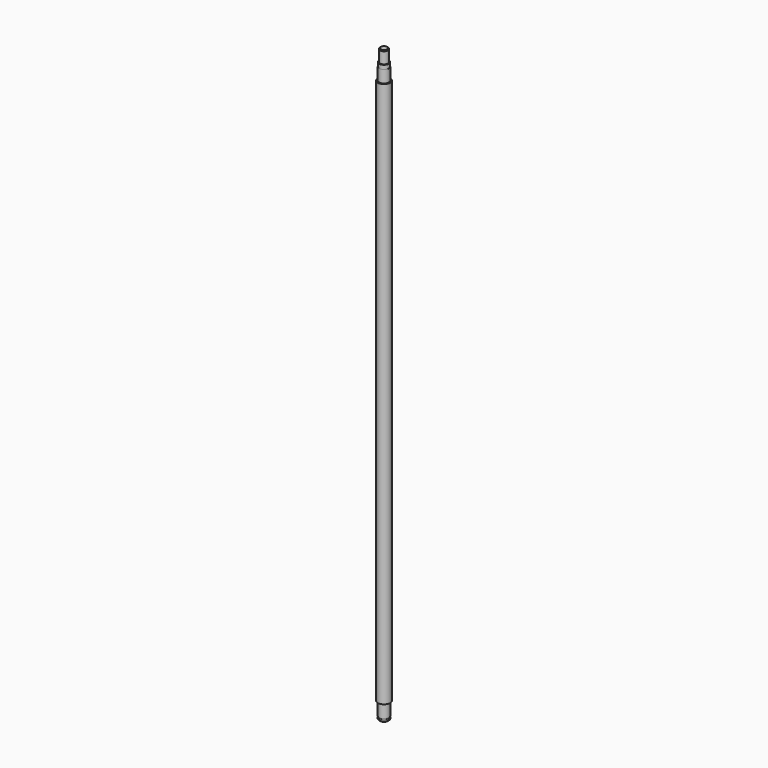
from build123d import *

# Parameters (mm, degrees)
F0_R      = 6
F1_DEPTH  = 3
F2_R      = 5.75
F3_DEPTH  = 1.15
F4_R      = 6
F4_R_2    = 5.75
F5_DEPTH  = 16
F6_R      = 7.5
F6_R_2    = 6
F7_DEPTH  = 667
F8_R      = 6
F9_DEPTH  = 15
F10_R     = 5.95
F11_DEPTH = 2
F12_R     = 5.95
F13_DEPTH = 3
F14_R     = 5
F15_DEPTH = 15
F16_SIZE  = 1


with BuildPart() as f1:
    # F0 (on Top) → F1 (new body)
    with BuildSketch(Plane.XY):
        Circle(F0_R)
    extrude(amount=F1_DEPTH)

    # F2 (on face) → F3 (join)
    with BuildSketch(Plane.XY.offset(3)):
        Circle(F2_R)
    extrude(amount=F3_DEPTH)

    # F4 (on face) → F5 (join)
    with BuildSketch(Plane.XY.offset(4.15)):
        Circle(F4_R)
        Circle(F4_R_2, mode=Mode.SUBTRACT)
        Circle(F4_R_2)
    extrude(amount=F5_DEPTH)

    # F6 (on face) → F7 (join)
    with BuildSketch(Plane.XY.offset(20.15)):
        Circle(F6_R)
        Circle(F6_R_2, mode=Mode.SUBTRACT)
        Circle(F6_R_2)
    extrude(amount=F7_DEPTH)

    # F8 (on face) → F9 (join)
    with BuildSketch(Plane.XY.offset(687.15)):
        Circle(F8_R)
    extrude(amount=F9_DEPTH)

    # F10 (on face) → F11 (join)
    with BuildSketch(Plane.XY.offset(702.15)):
        Circle(F10_R)
    extrude(amount=F11_DEPTH)

    # F12 (on face) → F13 (join)
    with BuildSketch(Plane.XY.offset(704.15)):
        Circle(F12_R)
        Circle(F12_R)
    extrude(amount=F13_DEPTH)

    # F14 (on face) → F15 (join)
    with BuildSketch(Plane.XY.offset(707.15)):
        Circle(F14_R)
    extrude(amount=F15_DEPTH)

    # F16
    f16_edges = [f1.edges().sort_by_distance(p)[0] for p in [
        (-5, 0, 722.15),
        (-6, 0, 0),
    ]]
    chamfer(f16_edges, length=F16_SIZE)


solid = f1.part
